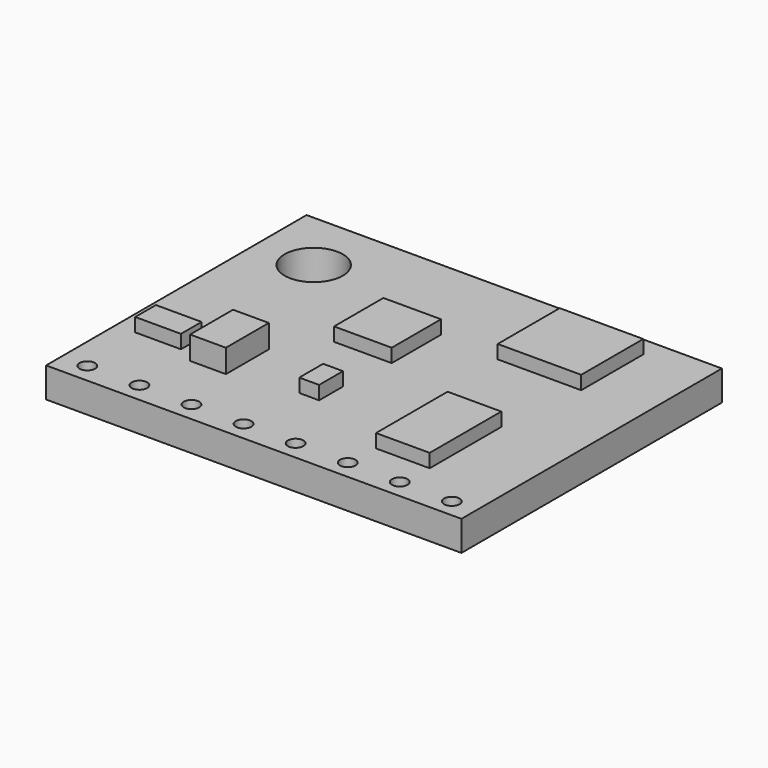
from build123d import *

# Parameters (mm, degrees)
F0_W     = 21.43
F0_H     = 16.8
F0_R     = 0.4
F0_R_2   = 1.5
F1_DEPTH = 0.775
F2_W     = 2.359656
F2_H     = 1.333718
F2_W_2   = 1.025936
F2_H_2   = 1.538906
F2_W_3   = 2.975217
F2_H_3   = 3.180405
F2_W_4   = 2.770032
F2_H_4   = 4.616717
F2_W_5   = 4.308936
F2_H_5   = 4.001155
F3_DEPTH = 0.7
F2_W_6   = 1.846687
F2_H_6   = 2.770031
F4_DEPTH = 1.2


with BuildPart() as f1:
    # F0 (on Top) → F1 (new body, symmetric)
    with BuildSketch(Plane.XY):
        Rectangle(F0_W, F0_H)
        with Locations((-9.393446, -7.391692)):
            Circle(F0_R, mode=Mode.SUBTRACT)
        with Locations((-6.7, -7.4)):
            Circle(F0_R, mode=Mode.SUBTRACT)
        with Locations((-4.006554, -7.408308)):
            Circle(F0_R, mode=Mode.SUBTRACT)
        with Locations((-1.313108, -7.416616)):
            Circle(F0_R, mode=Mode.SUBTRACT)
        with Locations((1.380338, -7.424924)):
            Circle(F0_R, mode=Mode.SUBTRACT)
        with Locations((4.073785, -7.433231)):
            Circle(F0_R, mode=Mode.SUBTRACT)
        with Locations((6.767231, -7.441539)):
            Circle(F0_R, mode=Mode.SUBTRACT)
        with Locations((9.460677, -7.449847)):
            Circle(F0_R, mode=Mode.SUBTRACT)
        with Locations((-7.768597, 5.178844)):
            Circle(F0_R_2, mode=Mode.SUBTRACT)
    extrude(amount=F1_DEPTH, both=True)

    # F2 (on face) → F3 (join)
    with BuildSketch(Plane.XY.offset(0.775)):
        with Locations((-8.531306, -3.239972)):
            Rectangle(F2_W, F2_H)
        with Locations((-0.734184, -3.137378)):
            Rectangle(F2_W_2, F2_H_2)
        with Locations((-1.452339, 2.043604)):
            Rectangle(F2_W_3, F2_H_3)
        with Locations((5.57533, -3.445159)):
            Rectangle(F2_W_4, F2_H_4)
        with Locations((5.318846, 5.3779)):
            Rectangle(F2_W_5, F2_H_5)
    extrude(amount=F3_DEPTH)

    # F2 (on face) → F4 (join)
    with BuildSketch(Plane.XY.offset(0.775)):
        with Locations((-5.504791, -3.086081)):
            Rectangle(F2_W_6, F2_H_6)
    extrude(amount=F4_DEPTH)


solid = f1.part
